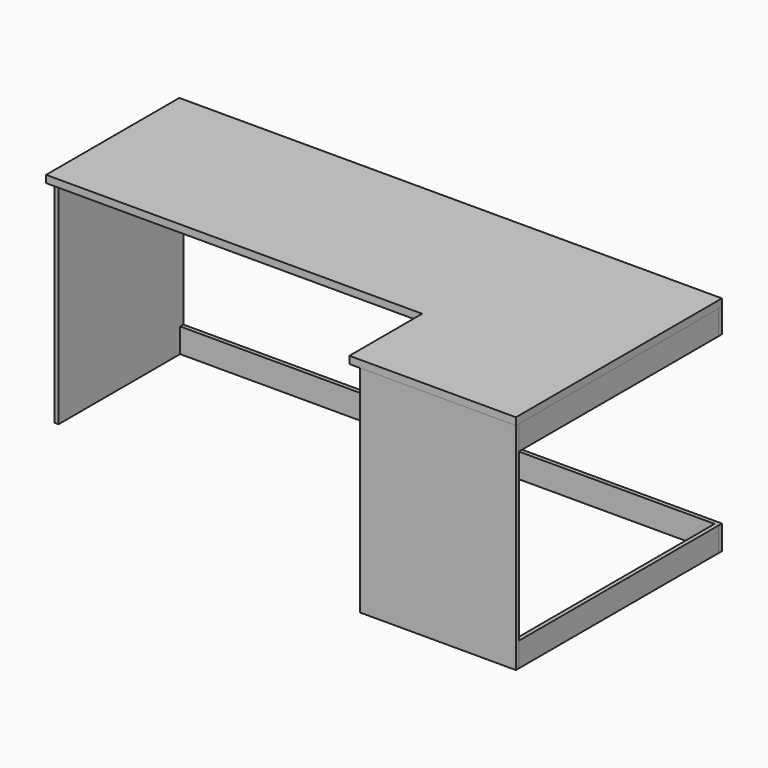
from build123d import *

# Parameters (mm, degrees)
F1_W      = 2120.9
F1_H      = 650.875
F2_DEPTH  = 28.575
F3_W      = 650.875
F3_H      = 28.575
F4_DEPTH  = 355.6
F5_W      = 15.875
F5_H      = 609.6
F6_DEPTH  = 841.375
F7_W      = 609.6
F7_H      = 15.875
F8_DEPTH  = 841.375
F9_W      = 15.875
F9_H      = 95.25
F10_DEPTH = 2105.025
F11_W     = 15.875
F11_H     = 95.25
F12_DEPTH = 2105.025
F13_W     = 15.875
F13_H     = 95.25
F14_DEPTH = 974.725
F15_W     = 15.875
F15_H     = 95.25
F16_DEPTH = 974.725


with BuildPart() as f2:
    # F1 (on offset) → F2 (new body)
    with BuildSketch(Plane.XY.offset(914.4)):
        Rectangle(F1_W, F1_H)
    extrude(amount=-F2_DEPTH)

    # F3 (on face) → F4 (join)
    with BuildSketch(Plane.XZ.offset(325.4375)):
        with Locations((735.0125, 900.1125)):
            Rectangle(F3_W, F3_H)
    extrude(amount=F4_DEPTH)


with BuildPart() as f6:
    # F5 (on face) → F6 (new body)
    with BuildSketch(Plane(origin=(0, 0, 885.825), x_dir=(1, 0, 0), z_dir=(0, 0, -1))):
        with Locations((-1052.5125, -20.6375)):
            Rectangle(F5_W, F5_H)
    extrude(amount=F6_DEPTH)


with BuildPart() as f8:
    # F7 (on face) → F8 (new body)
    with BuildSketch(Plane(origin=(0, 0, 885.825), x_dir=(1, 0, 0), z_dir=(0, 0, -1))):
        with Locations((755.65, 673.1)):
            Rectangle(F7_W, F7_H)
    extrude(amount=F8_DEPTH)


with BuildPart() as f10:
    # F9 (on face) → F10 (new body)
    with BuildSketch(Plane.YZ.offset(-1044.575)):
        with Locations((317.5, 838.2)):
            Rectangle(F9_W, F9_H)
    extrude(amount=F10_DEPTH)


with BuildPart() as f12:
    # F11 (on face) → F12 (new body)
    with BuildSketch(Plane.YZ.offset(-1044.575)):
        with Locations((317.5, 92.075)):
            Rectangle(F11_W, F11_H)
    extrude(amount=F12_DEPTH)


with BuildPart() as f14:
    # F13 (on face) → F14 (new body)
    with BuildSketch(Plane.XZ.offset(-309.5625)):
        with Locations((1052.5125, 92.075)):
            Rectangle(F13_W, F13_H)
    extrude(amount=F14_DEPTH)


with BuildPart() as f16:
    # F15 (on face) → F16 (new body)
    with BuildSketch(Plane.XZ.offset(-309.5625)):
        with Locations((1052.5125, 838.2)):
            Rectangle(F15_W, F15_H)
    extrude(amount=F16_DEPTH)


solid = Compound([f2.part, f6.part, f8.part, f10.part, f12.part, f14.part, f16.part])
